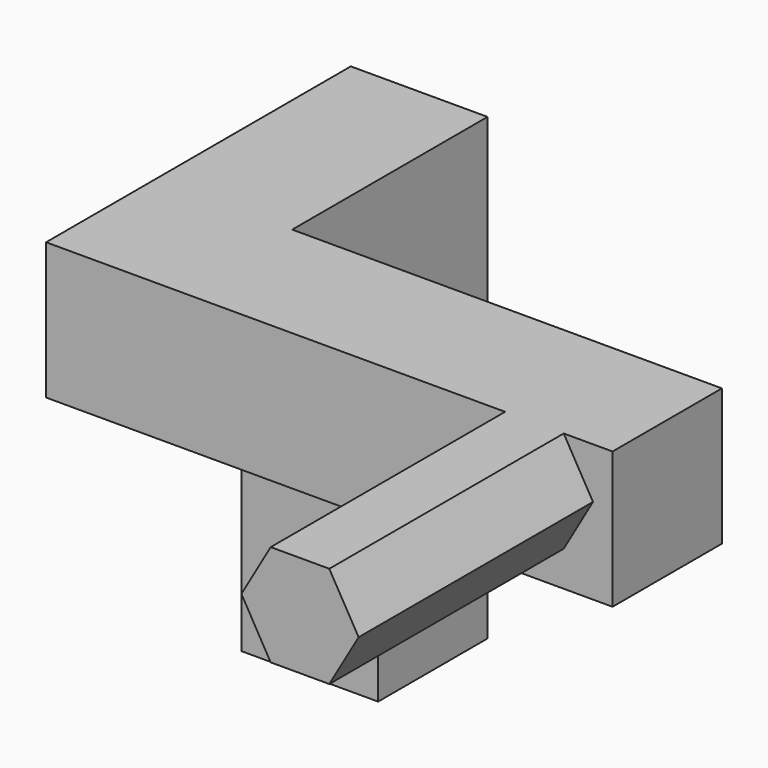
from build123d import *

# Parameters (mm, degrees)
F0_W     = 7
F0_H     = 7
F1_DEPTH = 16.51
F3_W     = 7
F3_H     = 7
F4_DEPTH = 19.5
F5_W     = 7
F5_H     = 7
F6_DEPTH = 22
F8_DEPTH = 15


with BuildPart() as f1:
    # F0 (on Top) → F1 (new body)
    with BuildSketch(Plane.XY):
        Rectangle(F0_W, F0_H)
    extrude(amount=-F1_DEPTH)

    # F3 (on face) → F4 (join, through all)
    with BuildSketch(Plane(origin=(0, 3.5, 0), x_dir=(-1, 0, 0), z_dir=(0, 1, 0))):
        with Locations((0, 3.5)):
            Rectangle(F3_W, F3_H)
    extrude(amount=-F4_DEPTH)

    # F5 (on face) → F6 (join, through all)
    with BuildSketch(Plane.YZ.offset(3.5)):
        with Locations((-12.5, 3.5)):
            Rectangle(F5_W, F5_H)
    extrude(amount=F6_DEPTH)

    # F7 (on face) → F8 (join)
    with BuildSketch(Plane.XZ.offset(16)):
        Polygon((23, 7), (20, 7), (18.5, 4.401924), (20, 1.803848), (23, 1.803848), (24.5, 4.401924), align=None)
    extrude(amount=F8_DEPTH)


solid = f1.part
